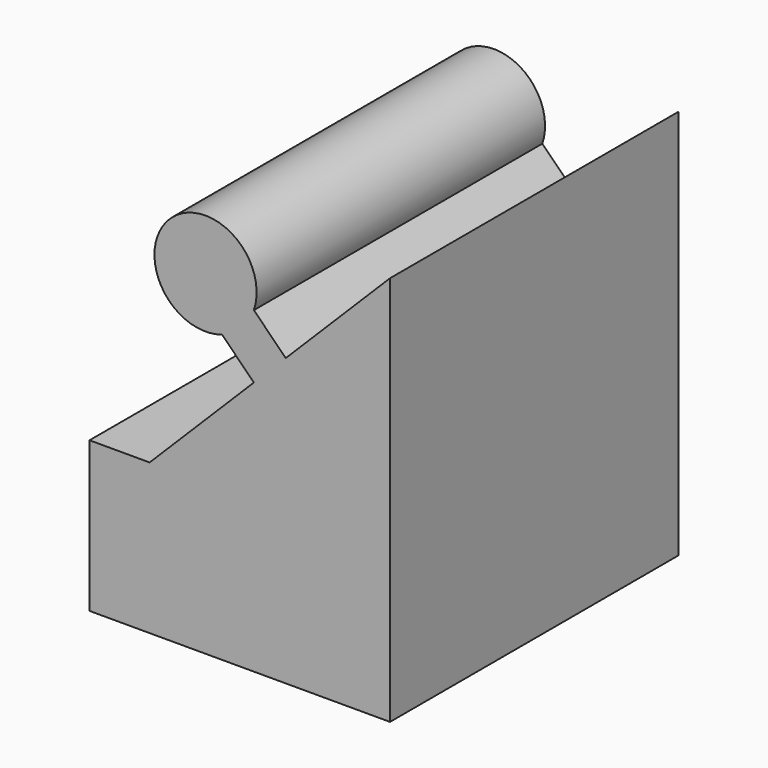
from build123d import *

# Parameters (mm, degrees)
F1_DEPTH = 12
F3_D     = 2
F3_DEPTH = 7.34
F3_TIP   = 0.600860619


with BuildPart() as f1:
    # F0 (on Front) → F1 (new body)
    with BuildSketch(Plane.XZ):
        with BuildLine():
            Line((-10, 0), (0, 0))
            Line((0, 0), (0, 13))
            Line((0, 13), (-3.4696699141, 9.5303300859))
            Line((-3.4696699141, 9.5303300859), (-4.5303300859, 10.5909902577))
            ThreePointArc((-4.5303300859, 10.5909902577), (-7.3415141503, 12.3415141503), (-5.5909902577, 9.5303300859))
            Line((-5.5909902577, 9.5303300859), (-4.5303300859, 8.4696699141))
            Line((-4.5303300859, 8.4696699141), (-8, 5))
            Line((-8, 5), (-10, 5))
            Line((-10, 5), (-10, 0))
        make_face()
    extrude(amount=F1_DEPTH)

    # F3
    with Locations(Plane(origin=(-10, 0, 0), x_dir=(0, -1, 0), z_dir=(-1, 0, 0))):
        with Locations((6, 2.5)):
            Hole(F3_D / 2, depth=F3_DEPTH)
            with Locations((0, 0, -(F3_DEPTH + F3_TIP / 2))):  # 118° drill point
                Cone(0, F3_D / 2, F3_TIP, mode=Mode.SUBTRACT)


solid = f1.part
